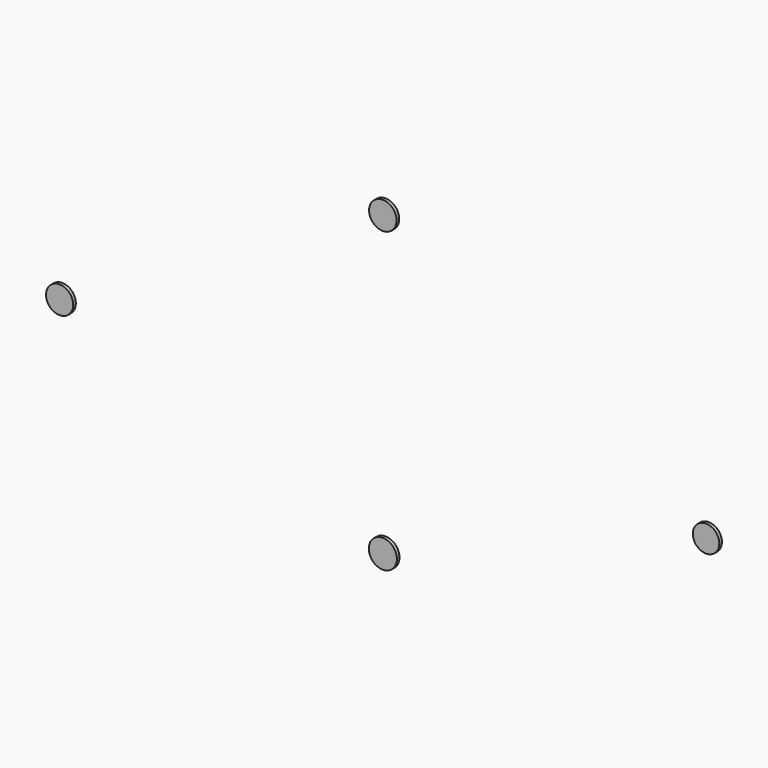
from build123d import *

# Parameters (mm, degrees)
F0_R     = 6.504359
F0_R_2   = 6.589313
F0_R_3   = 6.35
F0_R_4   = 6.729262
F1_DEPTH = 1.5875


with BuildPart() as f1:
    # F0 (on Front) → F1 (new body)
    with BuildSketch(Plane.XZ):
        with Locations((-155.011291, -14.608725)):
            Circle(F0_R)
        with Locations((0, 71.4375)):
            Circle(F0_R_2)
        with Locations((155.011291, -14.608725)):
            Circle(F0_R_3)
        with Locations((0, -71.4375)):
            Circle(F0_R_4)
    extrude(amount=F1_DEPTH)


solid = f1.part
